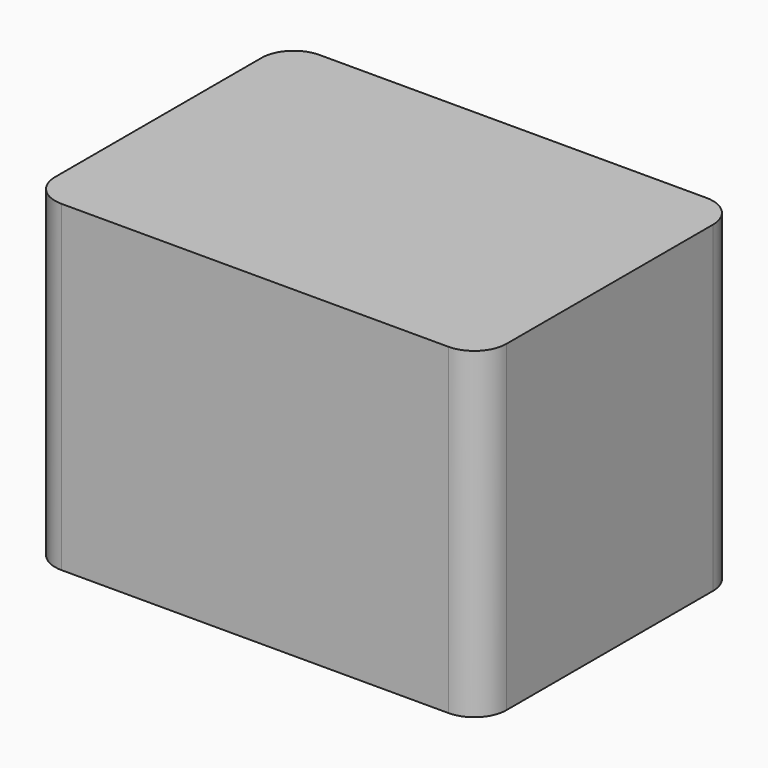
from build123d import *

# Parameters (mm, degrees)
F0_W     = 177.8
F0_H     = 127
F0_W_2   = 127
F0_H_2   = 76.2
F1_DEPTH = 127
F2_DEPTH = 101.6
F3_R     = 12.7
F4_R     = 12.7


with BuildPart() as f1:
    # F0 (on Top) → F1 (new body)
    with BuildSketch(Plane.XY):
        with Locations((7.560192, -20.097298)):
            Rectangle(F0_W, F0_H)
        with Locations((7.560192, -20.097298)):
            Rectangle(F0_W_2, F0_H_2, mode=Mode.SUBTRACT)
        with Locations((7.560192, -20.097298)):
            Rectangle(F0_W_2, F0_H_2)
    extrude(amount=F1_DEPTH)

    # F0 (on Top) → F2 (cut)
    with BuildSketch(Plane.XY):
        with Locations((7.560192, -20.097298)):
            Rectangle(F0_W_2, F0_H_2)
    extrude(amount=F2_DEPTH, mode=Mode.SUBTRACT)

    # F3
    f3_edges = [f1.edges().sort_by_distance(p)[0] for p in [
        (-55.939808, 18.002702, 50.8),
        (-55.939808, -58.197298, 50.8),
        (71.060192, 18.002702, 50.8),
        (71.060192, -58.197298, 50.8),
    ]]
    fillet(f3_edges, radius=F3_R)

    # F4
    f4_edges = [f1.edges().sort_by_distance(p)[0] for p in [
        (96.460192, -83.597298, 63.5),
        (96.460192, 43.402702, 63.5),
        (-81.339808, -83.597298, 63.5),
        (-81.339808, 43.402702, 63.5),
    ]]
    fillet(f4_edges, radius=F4_R)


solid = f1.part
